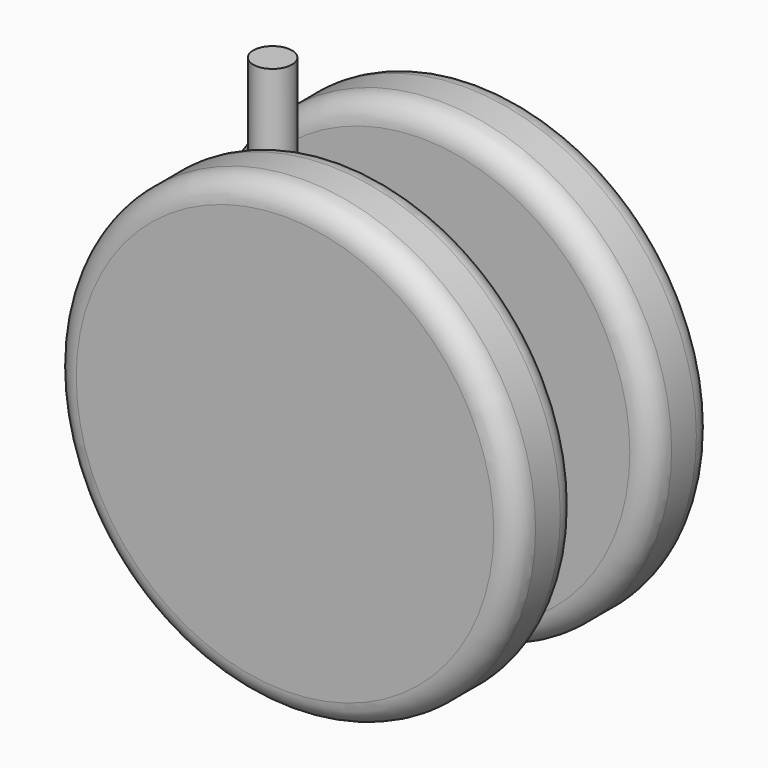
from build123d import *

# Parameters (mm, degrees)
F0_R      = 30
F1_DEPTH  = 10
F2_R      = 3
F3_R      = 3
F4_R      = 5
F5_DEPTH  = 6
F7_W      = 29.68113
F7_H      = 18.496936
F7_R      = 5
F8_DEPTH  = 4
F9_R      = 2.5
F10_DEPTH = 25


with BuildPart() as f1:
    # F0 (on Front) → F1 (new body)
    with BuildSketch(Plane.XZ):
        Circle(F0_R)
    extrude(amount=F1_DEPTH)

    # F2
    f2_edges = [f1.edges().sort_by_distance(p)[0] for p in [
        (-30, -10, 0),
    ]]
    fillet(f2_edges, radius=F2_R)

    # F3
    f3_edges = [f1.edges().sort_by_distance(p)[0] for p in [
        (-30, 0, 0),
    ]]
    fillet(f3_edges, radius=F3_R)

    # F4 (on face) → F5 (join)
    with BuildSketch(Plane.XZ.offset(10)):
        Circle(F4_R)
    extrude(amount=F5_DEPTH)


with BuildPart() as f6_1:
    # F6: instance of F1
    add(f1.part.mirror(Plane.XZ.offset(16)))


with BuildPart() as f8:
    # F7 (on face) → F8 (new body, symmetric)
    with BuildSketch(Plane.XZ.offset(16)):
        with Locations((-5.807177, -0.322621)):
            Rectangle(F7_W, F7_H)
        Circle(F7_R, mode=Mode.SUBTRACT)
    extrude(amount=F8_DEPTH, both=True)

    # F9 (on face) → F10 (join)
    with BuildSketch(Plane.XY.offset(8.925847)):
        with Locations((-14.4104, -16)):
            Circle(F9_R)
    extrude(amount=F10_DEPTH)


solid = Compound([f1.part, f6_1.part, f8.part])
